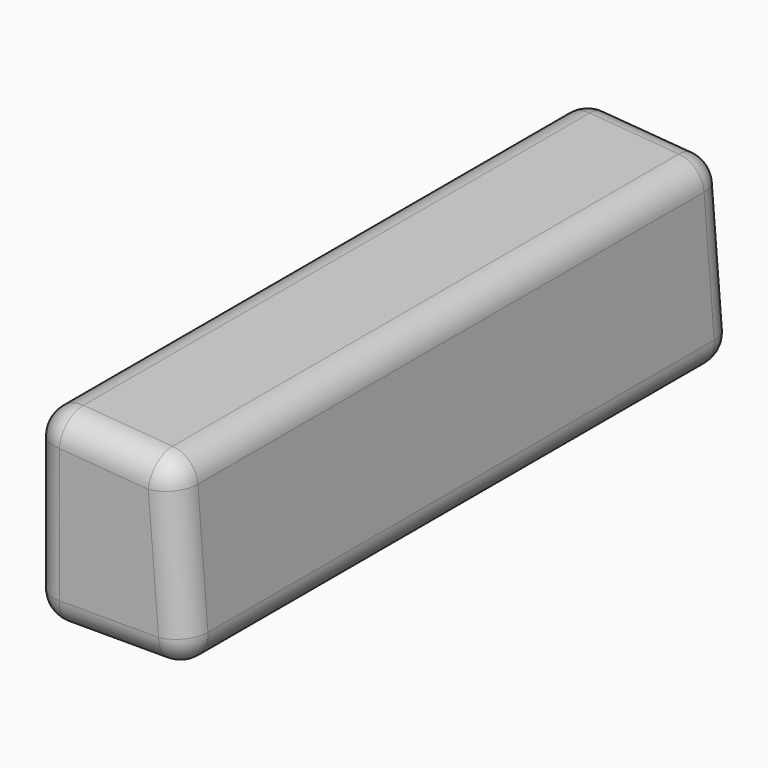
from build123d import *

# Parameters (mm, degrees)
F1_DEPTH = 127
F2_R     = 5.08


with BuildPart() as f1:
    # F0 (on Front) → F1 (new body)
    with BuildSketch(Plane.XZ):
        Polygon((-30.983802, 42.413801), (-57.244465, 44.491984), (-57.244465, 9.162893), (-28.338844, 9.162893), align=None)
    extrude(amount=F1_DEPTH)

    # F2
    f2_edges = [f1.edges().sort_by_distance(p)[0] for p in [
        (-30.983802, -63.5, 42.413801),
        (-57.244465, -63.5, 44.491984),
        (-44.114133, -127, 43.452892),
        (-29.661323, -127, 25.788347),
        (-42.791654, -127, 9.162893),
        (-57.244465, -127, 26.827438),
        (-28.338844, -63.5, 9.162893),
        (-57.244465, -63.5, 9.162893),
        (-29.661323, 0, 25.788347),
        (-44.114133, 0, 43.452892),
        (-57.244465, 0, 26.827438),
        (-42.791654, 0, 9.162893),
    ]]
    fillet(f2_edges, radius=F2_R)


solid = f1.part
